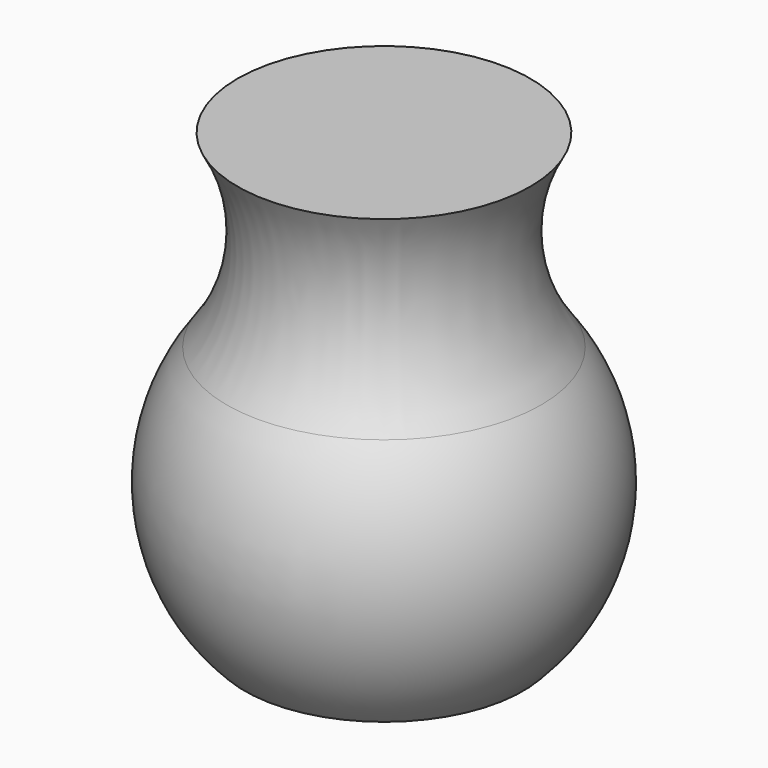
from build123d import *


with BuildPart() as f1:
    # F0 (on Front) → F1 (revolve)
    with BuildSketch(Plane.XZ):
        with BuildLine():
            Line((-11.916925, 0), (0, 0))
            Line((0, 0), (0, 38.211159))
            Line((0, 38.211159), (-12.529773, 38.211159))
            ThreePointArc((-12.529773, 38.211159), (-10.548332, 29.994367), (-13.459569, 22.059225))
            ThreePointArc((-13.459569, 22.059225), (-16.812018, 10.741229), (-11.916925, 0))
        make_face()
    revolve(axis=Axis((0, 0, 19.10558), (0, 0, 1)))


solid = f1.part
